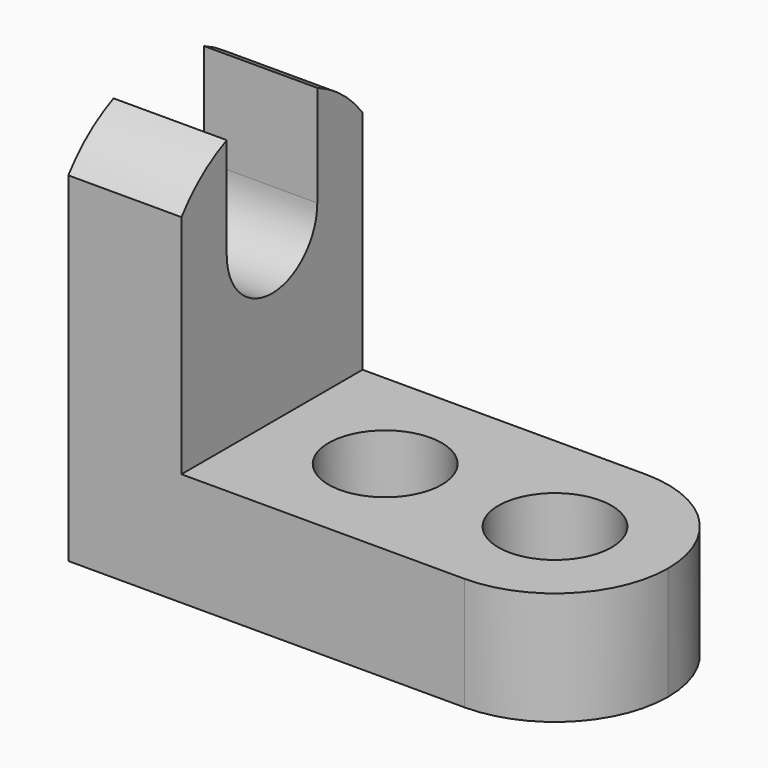
from build123d import *

# Parameters (mm, degrees)
F0_W      = 63.5
F0_H      = 44.45
F1_DEPTH  = 25.4
F2_DEPTH  = 6.35
F3_W      = 44.45
F3_H      = 31.75
F4_DEPTH  = 25.4
F5_R      = 6.35
F6_DEPTH  = 25.4
F8_DEPTH  = 25.4
F10_DEPTH = 25.4


with BuildPart() as f1:
    # F0 (on Front) → F1 (new body)
    with BuildSketch(Plane.XZ):
        with Locations((31.75, 22.225)):
            Rectangle(F0_W, F0_H)
    extrude(amount=-F1_DEPTH)

    # F2 (cut): a face of the model
    f2_faces = [f1.faces().sort_by_distance(p)[0] for p in [
        (63.5, 12.7, 22.225),
    ]]
    extrude(f2_faces, amount=-F2_DEPTH, mode=Mode.SUBTRACT)

    # F3 (on face) → F4 (cut)
    with BuildSketch(Plane.XZ):
        with Locations((34.925, 28.575)):
            Rectangle(F3_W, F3_H)
    extrude(amount=-F4_DEPTH, mode=Mode.SUBTRACT)

    # F5 (on face) → F6 (cut)
    with BuildSketch(Plane.XY.offset(12.7)):
        with Locations((25.4, 12.7)):
            Circle(F5_R)
        with Locations((44.45, 12.7)):
            Circle(F5_R)
    extrude(amount=-F6_DEPTH, mode=Mode.SUBTRACT)

    # F7 (on face) → F8 (cut)
    with BuildSketch(Plane.XY.offset(12.7)):
        with BuildLine():
            ThreePointArc((44.45, 25.4), (53.4302561211, 21.6802561211), (57.15, 12.7))
            Line((57.15, 12.7), (57.15, 25.4))
            Line((57.15, 25.4), (44.45, 25.4))
        make_face()
        with BuildLine():
            ThreePointArc((57.15, 12.7), (53.4302561211, 3.7197438789), (44.45, 0))
            Line((44.45, 0), (57.15, 0))
            Line((57.15, 0), (57.15, 12.7))
        make_face()
    extrude(amount=-F8_DEPTH, mode=Mode.SUBTRACT)

    # F9 (on face) → F10 (cut)
    with BuildSketch(Plane.YZ.offset(12.7)):
        with BuildLine():
            ThreePointArc((12.7, 44.45), (15.9434155936, 44.1151377178), (19.05, 43.1246778315))
            Line((19.05, 43.1246778315), (19.05, 44.45))
            Line((19.05, 44.45), (12.7, 44.45))
        make_face()
        with BuildLine():
            Line((6.35, 44.45), (6.35, 43.1246778315))
            ThreePointArc((6.35, 43.1246778315), (9.4565844064, 44.1151377178), (12.7, 44.45))
            Line((12.7, 44.45), (6.35, 44.45))
        make_face()
        with BuildLine():
            ThreePointArc((0, 38.1), (2.8492400381, 41.0240221774), (6.35, 43.1246778315))
            Line((6.35, 43.1246778315), (6.35, 44.45))
            Line((6.35, 44.45), (0, 44.45))
            Line((0, 44.45), (0, 38.1))
        make_face()
        with BuildLine():
            ThreePointArc((6.35, 31.75), (12.7, 25.4), (19.05, 31.75))
            ThreePointArc((19.05, 31.75), (12.7, 38.1), (6.35, 31.75))
        make_face()
        with BuildLine():
            ThreePointArc((6.35, 31.75), (12.7, 38.1), (19.05, 31.75))
            Line((19.05, 31.75), (19.05, 43.1246778315))
            ThreePointArc((19.05, 43.1246778315), (15.9434155936, 44.1151377178), (12.7, 44.45))
            ThreePointArc((12.7, 44.45), (9.4565844064, 44.1151377178), (6.35, 43.1246778315))
            Line((6.35, 43.1246778315), (6.35, 31.75))
        make_face()
        with BuildLine():
            Line((19.05, 44.45), (19.05, 43.1246778315))
            ThreePointArc((19.05, 43.1246778315), (22.5507599619, 41.0240221774), (25.4, 38.1))
            Line((25.4, 38.1), (25.4, 44.45))
            Line((25.4, 44.45), (19.05, 44.45))
        make_face()
    extrude(amount=-F10_DEPTH, mode=Mode.SUBTRACT)


solid = f1.part
